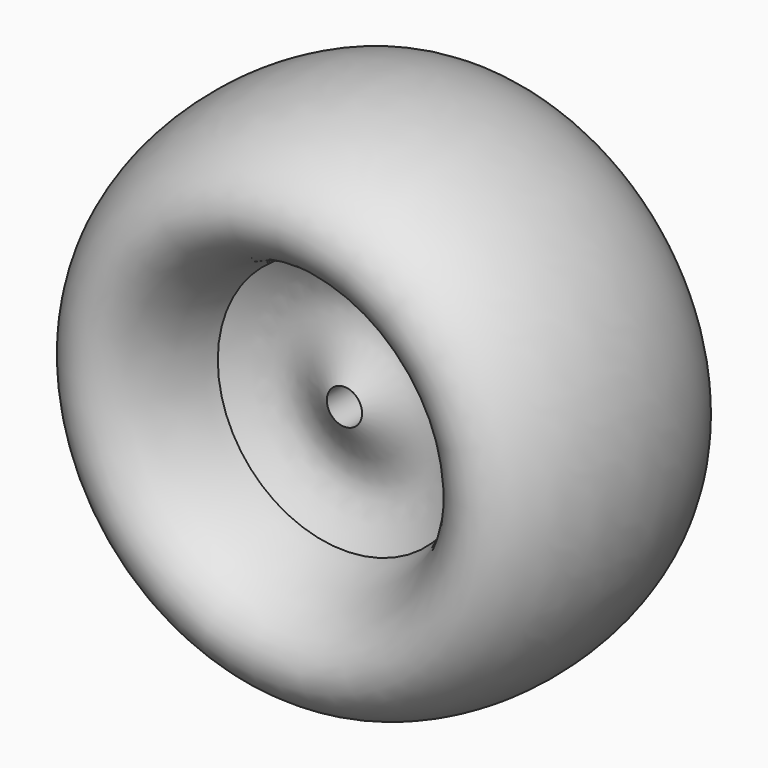
from build123d import *


with BuildPart() as f1:
    # F0 (on Top) → F1 (revolve)
    with BuildSketch(Plane.XY):
        with BuildLine():
            add(Edge.make_bspline(
                [(-40.9198767977, 23.2506606699), (-35.5409761381, 19.4338943046), (-24.5062598559, 11.5701343247), (-12.0800619304, 19.2873651024), (-5.6946617551, 23.2532024384)],
                knots=[0, 0, 0, 0, 0.485979634, 1, 1, 1, 1], degree=3))
            add(Edge.make_bspline(
                [(-40.9198767977, 23.2506606699), (-51.6215957372, 80.5720123615), (-76.2114883993, 43.9400810359), (-100.8013810613, 7.3081497103), (-76.2114883993, -29.3237816153), (-51.6215957372, -65.9557129409), (-40.9198767977, -8.6343612493)],
                knots=[1.9267582386, 1.9267582386, 1.9267582386, 3.7838453998, 3.7838453998, 5.640932561, 5.640932561, 7.4980197222, 7.4980197222, 7.4980197222], degree=2, weights=[1, 0.5990008426, 1, 0.5990008426, 1, 0.5990008426, 1]))
            add(Edge.make_bspline(
                [(-40.9198767977, -8.6343612493), (-35.5409761381, -4.817594884), (-24.5062598559, 3.0461650959), (-12.0800619304, -4.6710656818), (-5.6946617551, -8.6369030178)],
                knots=[0, 0, 0, 0, 0.485979634, 1, 1, 1, 1], degree=3))
            Line((-5.6946617551, -8.6369030178), (-5.6946617551, 23.2532024384))
        make_face()
    revolve(axis=Axis((0, 0.5927784368, 0), (0, -1, 0)))


solid = f1.part
